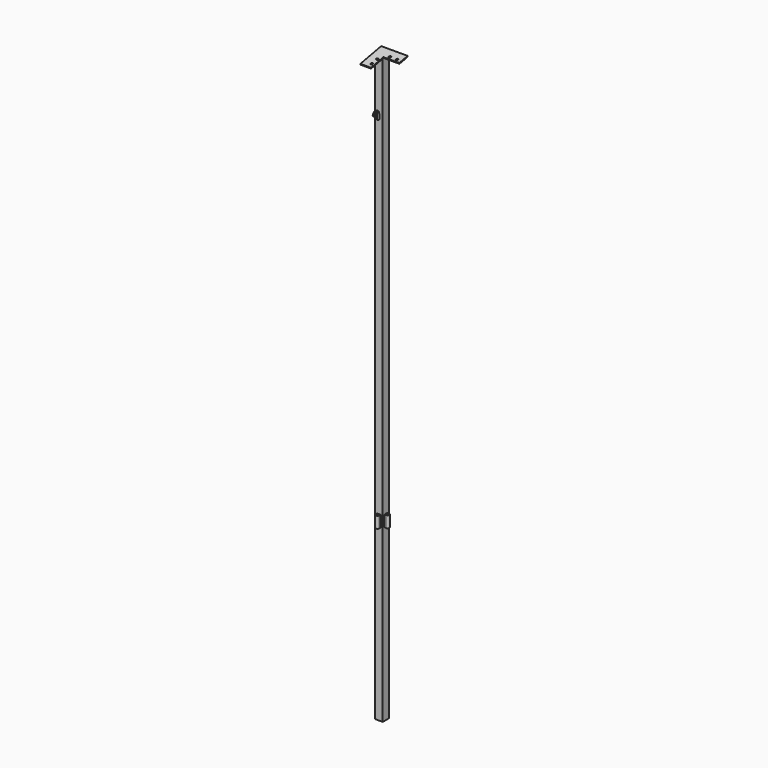
from build123d import *

# Parameters (mm, degrees)
F0_W      = 45
F0_H      = 45
F1_DEPTH  = 3330
F4_DEPTH  = 5
F5_R      = 8
F6_DEPTH  = 60
F9_W      = 45
F9_H      = 45.842251273
F10_DEPTH = 25
F11_W     = 60
F11_H     = 60
F11_W_2   = 90
F11_H_2   = 90
F12_DEPTH = 5
F13_R     = 6
F14_DEPTH = 25
F17_W     = 150
F17_H     = 4.7702248844
F18_DEPTH = 3358.6871623993
F19_DEPTH = 30


with BuildPart() as f1:
    # F0 (on Top) → F1 (new body)
    with BuildSketch(Plane.XY):
        Rectangle(F0_W, F0_H)
    extrude(amount=F1_DEPTH)

    # F3 (on offset) → F4 (join)
    with BuildSketch(Plane.XY.offset(965)):
        with BuildLine():
            ThreePointArc((2, -22.7020410289), (1.0050896201, -22.5506384699), (0, -22.5))
            Line((0, -22.5), (0, -32.5))
            Line((0, -32.5), (2, -32.5))
            Line((2, -32.5), (2, -22.7020410289))
        make_face()
        with BuildLine():
            Line((2, -22.5), (0, -22.5))
            ThreePointArc((0, -22.5), (1.0050896201, -22.5506384699), (2, -22.7020410289))
            Line((2, -22.7020410289), (2, -22.5))
        make_face()
        with BuildLine():
            Line((0, -32.5), (0, -22.5))
            ThreePointArc((0, -22.5), (-1.0050896201, -22.5506384699), (-2, -22.7020410289))
            Line((-2, -22.7020410289), (-2, -32.5))
            Line((-2, -32.5), (0, -32.5))
        make_face()
        with BuildLine():
            ThreePointArc((-2, -22.7020410289), (-1.0050896201, -22.5506384699), (0, -22.5))
            Line((0, -22.5), (-2, -22.5))
            Line((-2, -22.5), (-2, -22.7020410289))
        make_face()
        with BuildLine():
            Line((2, -32.5), (0, -32.5))
            Line((0, -32.5), (-2, -32.5))
            Line((-2, -32.5), (-2, -22.7020410289))
            ThreePointArc((-2, -22.7020410289), (-7.7459666924, -26.1754446797), (-10, -32.5))
            ThreePointArc((-10, -32.5), (0, -42.5), (10, -32.5))
            Line((10, -32.5), (2, -32.5))
        make_face()
        with BuildLine():
            Line((2, -22.5), (2, -22.7020410289))
            ThreePointArc((2, -22.7020410289), (7.7459666924, -26.1754446797), (10, -32.5))
            Line((10, -32.5), (10, -22.5))
            Line((10, -22.5), (2, -22.5))
        make_face()
        with BuildLine():
            ThreePointArc((10, -32.5), (7.7459666924, -26.1754446797), (2, -22.7020410289))
            Line((2, -22.7020410289), (2, -32.5))
            Line((2, -32.5), (10, -32.5))
        make_face()
        with BuildLine():
            ThreePointArc((-10, -32.5), (-7.7459666924, -26.1754446797), (-2, -22.7020410289))
            Line((-2, -22.7020410289), (-2, -22.5))
            Line((-2, -22.5), (-10, -22.5))
            Line((-10, -22.5), (-10, -32.5))
        make_face()
        with BuildLine():
            ThreePointArc((22.7020410289, 2), (22.5506384699, 1.0050896201), (22.5, 0))
            Line((22.5, 0), (32.5, 0))
            Line((32.5, 0), (32.5, 2))
            Line((32.5, 2), (22.7020410289, 2))
        make_face()
        with BuildLine():
            Line((22.5, 2), (22.5, 0))
            ThreePointArc((22.5, 0), (22.5506384699, 1.0050896201), (22.7020410289, 2))
            Line((22.7020410289, 2), (22.5, 2))
        make_face()
        with BuildLine():
            Line((32.5, 0), (22.5, 0))
            ThreePointArc((22.5, 0), (22.5506384699, -1.0050896201), (22.7020410289, -2))
            Line((22.7020410289, -2), (32.5, -2))
            Line((32.5, -2), (32.5, 0))
        make_face()
        with BuildLine():
            ThreePointArc((22.7020410289, -2), (22.5506384699, -1.0050896201), (22.5, 0))
            Line((22.5, 0), (22.5, -2))
            Line((22.5, -2), (22.7020410289, -2))
        make_face()
        with BuildLine():
            Line((32.5, 2), (32.5, 0))
            Line((32.5, 0), (32.5, -2))
            Line((32.5, -2), (32.5, -10))
            ThreePointArc((32.5, -10), (39.5710678119, -7.0710678119), (42.5, 0))
            ThreePointArc((42.5, 0), (39.5710678119, 7.0710678119), (32.5, 10))
            Line((32.5, 10), (32.5, 2))
        make_face()
        with BuildLine():
            Line((22.5, 2), (22.7020410289, 2))
            ThreePointArc((22.7020410289, 2), (26.1754446797, 7.7459666924), (32.5, 10))
            Line((32.5, 10), (22.5, 10))
            Line((22.5, 10), (22.5, 2))
        make_face()
        with BuildLine():
            ThreePointArc((32.5, 10), (26.1754446797, 7.7459666924), (22.7020410289, 2))
            Line((22.7020410289, 2), (32.5, 2))
            Line((32.5, 2), (32.5, 10))
        make_face()
        with BuildLine():
            Line((32.5, -2), (22.7020410289, -2))
            ThreePointArc((22.7020410289, -2), (26.1754446797, -7.7459666924), (32.5, -10))
            Line((32.5, -10), (32.5, -2))
        make_face()
        with BuildLine():
            ThreePointArc((32.5, -10), (26.1754446797, -7.7459666924), (22.7020410289, -2))
            Line((22.7020410289, -2), (22.5, -2))
            Line((22.5, -2), (22.5, -10))
            Line((22.5, -10), (32.5, -10))
        make_face()
    extrude(amount=F4_DEPTH)

    # F5 (on face) → F6 (join)
    with BuildSketch(Plane.XY.offset(970)):
        with BuildLine():
            ThreePointArc((32.5, -10), (39.5710678119, -7.0710678119), (42.5, 0))
            ThreePointArc((42.5, 0), (39.5710678119, 7.0710678119), (32.5, 10))
            ThreePointArc((32.5, 10), (25.4289321881, 7.0710678119), (22.5, 0))
            ThreePointArc((22.5, 0), (25.4289321881, -7.0710678119), (32.5, -10))
        make_face()
        with Locations((32.5, 0)):
            Circle(F5_R, mode=Mode.SUBTRACT)
        with BuildLine():
            ThreePointArc((22.5, 0), (25.4289321881, 7.0710678119), (32.5, 10))
            Line((32.5, 10), (22.5, 10))
            Line((22.5, 10), (22.5, 0))
        make_face()
        with BuildLine():
            Line((22.5, -10), (32.5, -10))
            ThreePointArc((32.5, -10), (25.4289321881, -7.0710678119), (22.5, 0))
            Line((22.5, 0), (22.5, -10))
        make_face()
        with BuildLine():
            ThreePointArc((0, -22.5), (-7.0710678119, -25.4289321881), (-10, -32.5))
            ThreePointArc((-10, -32.5), (0, -42.5), (10, -32.5))
            ThreePointArc((10, -32.5), (7.0710678119, -25.4289321881), (0, -22.5))
        make_face()
        with Locations((0, -32.5)):
            Circle(F5_R, mode=Mode.SUBTRACT)
        with BuildLine():
            Line((-10, -22.5), (-10, -32.5))
            ThreePointArc((-10, -32.5), (-7.0710678119, -25.4289321881), (0, -22.5))
            Line((0, -22.5), (-10, -22.5))
        make_face()
        with BuildLine():
            ThreePointArc((0, -22.5), (7.0710678119, -25.4289321881), (10, -32.5))
            Line((10, -32.5), (10, -22.5))
            Line((10, -22.5), (0, -22.5))
        make_face()
    extrude(amount=F6_DEPTH)

    # F9 (on face) → F10 (join)
    with BuildSketch(Plane(origin=(0, -624.5391596736, 3212.9754420296), x_dir=(1, 0, 0), z_dir=(0, 0.1908089954, -0.9816271834))):
        with Locations((0, -636.2284686128)):
            Rectangle(F9_W, F9_H)
    extrude(amount=F10_DEPTH)

    # F11 (on face) → F12 (join)
    with BuildSketch(Plane(origin=(0, -624.5391596736, 3212.9754420296), x_dir=(1, 0, 0), z_dir=(0, 0.1908089954, -0.9816271834))):
        with Locations((7.5, -629.1495942493)):
            Rectangle(F11_W, F11_H)
        with Locations((82.5, -629.1495942493)):
            Rectangle(F11_W_2, F11_H)
        with Locations((7.5, -554.1495942493)):
            Rectangle(F11_W, F11_H_2)
    extrude(amount=F12_DEPTH)

    # F13 (on face) → F14 (cut)
    with BuildSketch(Plane(origin=(0, -624.5391596736, 3212.9754420296), x_dir=(1, 0, 0), z_dir=(0, -0.1908089954, 0.9816271834))):
        with BuildLine():
            ThreePointArc((22.5, 540.1495942493), (18.2573593129, 529.9069535622), (28.5, 534.1495942493))
            Line((28.5, 534.1495942493), (22.5, 534.1495942493))
            Line((22.5, 534.1495942493), (22.5, 540.1495942493))
        make_face()
        with BuildLine():
            Line((22.5, 534.1495942493), (28.5, 534.1495942493))
            ThreePointArc((28.5, 534.1495942493), (26.7426406871, 538.3922349364), (22.5, 540.1495942493))
            Line((22.5, 540.1495942493), (22.5, 534.1495942493))
        make_face()
        with BuildLine():
            ThreePointArc((28.5, 574.1495942493), (18.2573593129, 578.3922349364), (22.5, 568.1495942493))
            ThreePointArc((22.5, 568.1495942493), (26.7426406871, 569.9069535622), (28.5, 574.1495942493))
        make_face()
        with BuildLine():
            ThreePointArc((96.5, 614.1495942493), (98.2573593129, 609.9069535622), (102.5, 608.1495942493))
            Line((102.5, 608.1495942493), (102.5, 614.1495942493))
            Line((102.5, 614.1495942493), (96.5, 614.1495942493))
        make_face()
        with Locations((62.5, 614.1495942493)):
            Circle(F13_R)
        with BuildLine():
            Line((102.5, 614.1495942493), (102.5, 608.1495942493))
            ThreePointArc((102.5, 608.1495942493), (106.7426406871, 609.9069535622), (108.5, 614.1495942493))
            ThreePointArc((108.5, 614.1495942493), (102.5, 620.1495942493), (96.5, 614.1495942493))
            Line((96.5, 614.1495942493), (102.5, 614.1495942493))
        make_face()
    extrude(amount=-F14_DEPTH, mode=Mode.SUBTRACT)

    # F17 (on Top) → F18 (cut)
    with BuildSketch(Plane.XY):
        with Locations((52.5, 24.8851124422)):
            Rectangle(F17_W, F17_H)
    extrude(amount=F18_DEPTH, mode=Mode.SUBTRACT)

    # F16 (on offset) → F19 (join)
    with BuildSketch(Plane.XY.offset(3000)):
        with BuildLine():
            ThreePointArc((-5, -27.5), (0, -32.5), (5, -27.5))
            ThreePointArc((5, -27.5), (3.5355339059, -23.9644660941), (0, -22.5))
            ThreePointArc((0, -22.5), (-3.5355339059, -23.9644660941), (-5, -27.5))
        make_face()
        with BuildLine():
            ThreePointArc((0, -22.5), (3.5355339059, -23.9644660941), (5, -27.5))
            Line((5, -27.5), (5, -22.5))
            Line((5, -22.5), (0, -22.5))
        make_face()
        with BuildLine():
            ThreePointArc((-5, -27.5), (-3.5355339059, -23.9644660941), (0, -22.5))
            Line((0, -22.5), (-5, -22.5))
            Line((-5, -22.5), (-5, -27.5))
        make_face()
    extrude(amount=F19_DEPTH)

    # F22: sweep along a path in F21
    with BuildLine(Plane.YZ) as f22_path:
        ThreePointArc((-27.5, 3030), (-42.5, 3045), (-57.5, 3030))
    # F20 (on face) → F22 (sweep)
    with BuildSketch(Plane.XY.offset(3030)):
        with BuildLine():
            ThreePointArc((0, -22.5), (-3.5355339059, -23.9644660941), (-5, -27.5))
            ThreePointArc((-5, -27.5), (0, -32.5), (5, -27.5))
            ThreePointArc((5, -27.5), (3.5355339059, -23.9644660941), (0, -22.5))
        make_face()
    sweep(path=f22_path.line)


solid = f1.part
